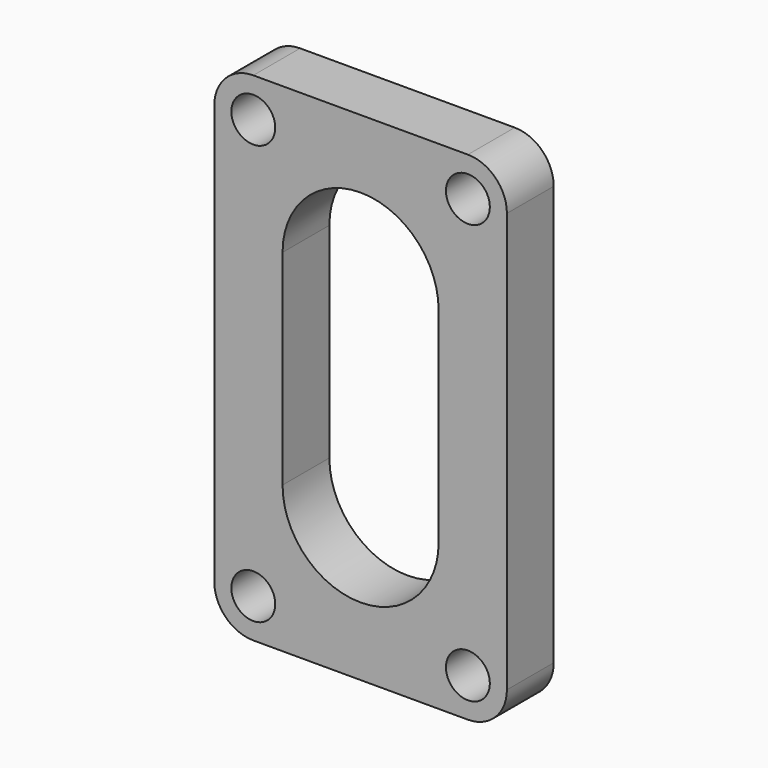
from build123d import *

# Parameters (mm, degrees)
F0_R     = 4.5
F1_DEPTH = 12


with BuildPart() as f1:
    # F0 (on Front) → F1 (new body)
    with BuildSketch(Plane.XZ):
        with BuildLine():
            Line((22, 51), (-22, 51))
            ThreePointArc((-22, 51), (-27.656854, 48.656854), (-30, 43))
            Line((-30, 43), (-30, -43))
            ThreePointArc((-30, -43), (-27.656854, -48.656854), (-22, -51))
            Line((-22, -51), (22, -51))
            ThreePointArc((22, -51), (27.656854, -48.656854), (30, -43))
            Line((30, -43), (30, 43))
            ThreePointArc((30, 43), (27.656854, 48.656854), (22, 51))
        make_face()
        with Locations((-22, -43)):
            Circle(F0_R, mode=Mode.SUBTRACT)
        with Locations((22, -43)):
            Circle(F0_R, mode=Mode.SUBTRACT)
        with Locations((-22, 43)):
            Circle(F0_R, mode=Mode.SUBTRACT)
        with BuildLine():
            ThreePointArc((-16, 21), (0, 37), (16, 21))
            Line((16, 21), (16, -21))
            ThreePointArc((16, -21), (0, -37), (-16, -21))
            Line((-16, -21), (-16, 21))
        make_face(mode=Mode.SUBTRACT)
        with Locations((22, 43)):
            Circle(F0_R, mode=Mode.SUBTRACT)
    extrude(amount=F1_DEPTH)


solid = f1.part
